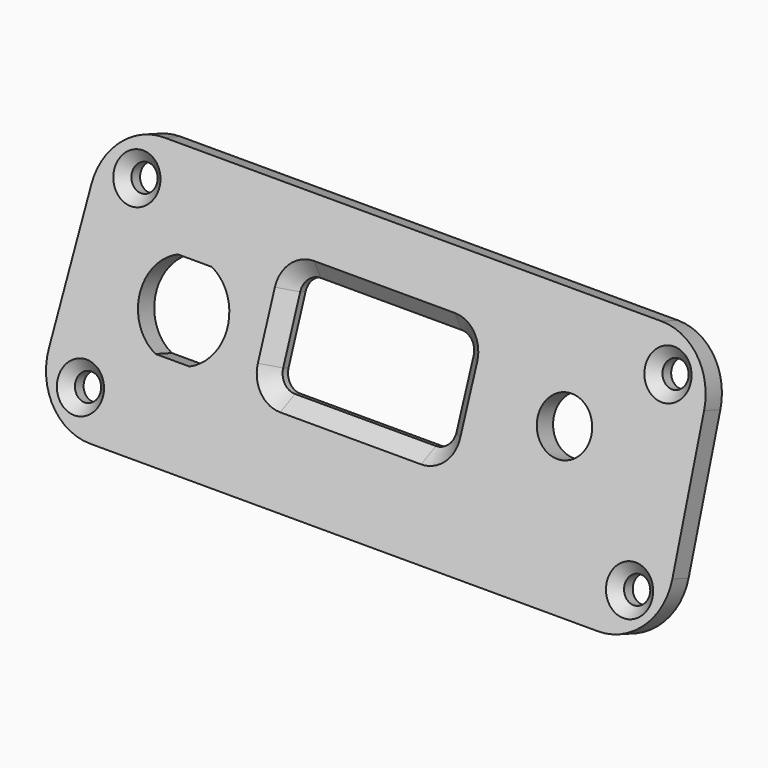
from build123d import *

# Parameters (mm, degrees)
SKETCH033_R     = 1.75
SKETCH033_R_2   = 3.7
PAD001_DEPTH    = 3
CHAMFER001_SIZE = 2
CHAMFER002_SIZE = 1.4


with BuildPart() as part:
    # Sketch033 → Pad001 (new body)
    with BuildSketch(Plane(origin=(0, -38, 0), x_dir=(1, 0, 0), z_dir=(0, -0.939693, 0.34202))):
        with BuildLine():
            Line((-34.406356, 37.6), (34.406361, 37.6))
            ThreePointArc((42.400003, 29.918894), (39.949322, 35.368499), (34.406361, 37.6))
            Line((42.400003, 29.918894), (43.15, 11.118894))
            ThreePointArc((35.156359, 2.8), (40.924857, 5.257038), (43.15, 11.118894))
            Line((35.156359, 2.8), (-35.156359, 2.8))
            ThreePointArc((-43.15, 11.118896), (-40.924858, 5.257039), (-35.156359, 2.8))
            Line((-43.15, 11.118896), (-42.399997, 29.918896))
            ThreePointArc((-34.406356, 37.6), (-39.949317, 35.368499), (-42.399997, 29.918896))
        make_face()
        with Locations((-36.75, 32.3)):
            Circle(SKETCH033_R, mode=Mode.SUBTRACT)
        with Locations((36.75, 32.3)):
            Circle(SKETCH033_R, mode=Mode.SUBTRACT)
        with Locations((-38, 8.3)):
            Circle(SKETCH033_R, mode=Mode.SUBTRACT)
        with Locations((38, 8.3)):
            Circle(SKETCH033_R, mode=Mode.SUBTRACT)
        with Locations((25, 22.9)):
            Circle(SKETCH033_R_2, mode=Mode.SUBTRACT)
        with BuildLine():
            Line((-11.75, 28.5), (7.75, 28.5))
            ThreePointArc((10, 26.25), (9.34099, 27.84099), (7.75, 28.5))
            Line((10, 26.25), (10, 17.65))
            ThreePointArc((7.75, 15.4), (9.34099, 16.05901), (10, 17.65))
            Line((7.75, 15.4), (-11.75, 15.4))
            ThreePointArc((-14, 17.65), (-13.34099, 16.05901), (-11.75, 15.4))
            Line((-14, 17.65), (-14, 26.25))
            ThreePointArc((-11.75, 28.5), (-13.34099, 27.84099), (-14, 26.25))
        make_face(mode=Mode.SUBTRACT)
        with BuildLine():
            Line((-29.35, 25.939165), (-24.65, 25.939165))
            ThreePointArc((-24.65, 14.680835), (-20.9, 20.31), (-24.65, 25.939165))
            Line((-29.35, 14.680835), (-24.65, 14.680835))
            ThreePointArc((-29.35, 25.939165), (-33.1, 20.31), (-29.35, 14.680835))
        make_face(mode=Mode.SUBTRACT)
    extrude(amount=PAD001_DEPTH)

    # Chamfer001
    chamfer001_edges = [part.edges().sort_by_distance(p)[0] for p in [
        (-2, -31.071504, 27.8073),
    ]]
    chamfer(chamfer001_edges, length=CHAMFER001_SIZE)

    # Chamfer002
    chamfer002_edges = [part.edges().sort_by_distance(p)[0] for p in [
        (-38.5, -29.771827, 31.378132),
        (-39.75, -37.980311, 8.825509),
        (35, -29.771827, 31.378132),
        (36.25, -37.980311, 8.825509),
    ]]
    chamfer(chamfer002_edges, length=CHAMFER002_SIZE)


solid = part.part
